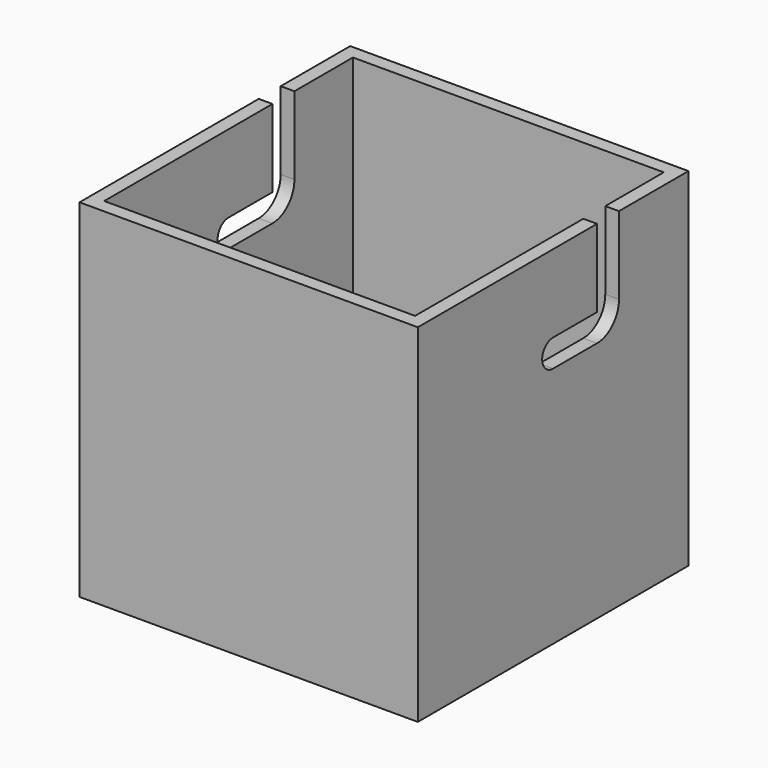
from build123d import *

# Parameters (mm, degrees)
F0_W     = 117.475
F0_H     = 117.475
F1_DEPTH = 120.65
F2_T     = -4.7625
F4_D     = 9.525
F6_DEPTH = 0.79375
F9_DEPTH = 117.475


with BuildPart() as f1:
    # F0 (on Top) → F1 (new body)
    with BuildSketch(Plane.XY):
        Rectangle(F0_W, F0_H)
    extrude(amount=F1_DEPTH)

    # F2
    f2_openings = [f1.faces().sort_by_distance(p)[0] for p in [
        (0, 0, 120.65),
    ]]
    offset(amount=F2_T, openings=f2_openings)

    # F4 (through all)
    with Locations(Plane.YZ.offset(58.7375)):
        with Locations((0, 88.9)):
            Hole(F4_D / 2)


with BuildPart() as f6:
    # F5 (on face) → F6 (new body)
    with BuildSketch(Plane(origin=(0, -53.975, 0), x_dir=(-1, 0, 0), z_dir=(0, 1, 0))):
        with BuildLine():
            Line((0, 117.475), (-6.35, 117.475))
            ThreePointArc((-6.35, 117.475), (-8.595064, 116.545064), (-9.525, 114.3))
            Line((-9.525, 114.3), (-9.525, 101.6))
            ThreePointArc((-9.525, 101.6), (-8.595064, 99.354936), (-6.35, 98.425))
            Line((-6.35, 98.425), (6.35, 98.425))
            ThreePointArc((6.35, 98.425), (8.595064, 99.354936), (9.525, 101.6))
            Line((9.525, 101.6), (9.525, 114.3))
            ThreePointArc((9.525, 114.3), (8.595064, 116.545064), (6.35, 117.475))
            Line((6.35, 117.475), (0, 117.475))
        make_face()
        with BuildLine():
            Line((-6.35, 116.68125), (0, 116.68125))
            Line((0, 116.68125), (6.35, 116.68125))
            ThreePointArc((6.35, 116.68125), (8.033798, 115.983798), (8.73125, 114.3))
            Line((8.73125, 114.3), (8.73125, 101.6))
            ThreePointArc((8.73125, 101.6), (8.033798, 99.916202), (6.35, 99.21875))
            Line((6.35, 99.21875), (-6.35, 99.21875))
            ThreePointArc((-6.35, 99.21875), (-8.033798, 99.916202), (-8.73125, 101.6))
            Line((-8.73125, 101.6), (-8.73125, 114.3))
            ThreePointArc((-8.73125, 114.3), (-8.033798, 115.983798), (-6.35, 116.68125))
        make_face(mode=Mode.SUBTRACT)
    extrude(amount=-F6_DEPTH)


with BuildPart() as f1_1:
    add(f1.part)

    # F7: cut F6
    add(f6.part, mode=Mode.SUBTRACT)


with BuildPart() as f9:
    # F8 (on face) → F9 (new body, through all)
    with BuildSketch(Plane.YZ.offset(58.7375)):
        with BuildLine():
            ThreePointArc((0, 93.6625), (4.7625, 88.9), (0, 84.1375))
            Line((0, 84.1375), (19.05, 84.1375))
            ThreePointArc((19.05, 84.1375), (25.785192, 86.927308), (28.575, 93.6625))
            Line((28.575, 93.6625), (28.575, 120.65))
            Line((28.575, 120.65), (19.05, 120.65))
            Line((19.05, 120.65), (19.05, 93.6625))
            Line((19.05, 93.6625), (0, 93.6625))
        make_face()
    extrude(amount=-F9_DEPTH)


with BuildPart() as f1_2:
    add(f1_1.part)

    # F10: cut F9
    add(f9.part, mode=Mode.SUBTRACT)


solid = f1_2.part
